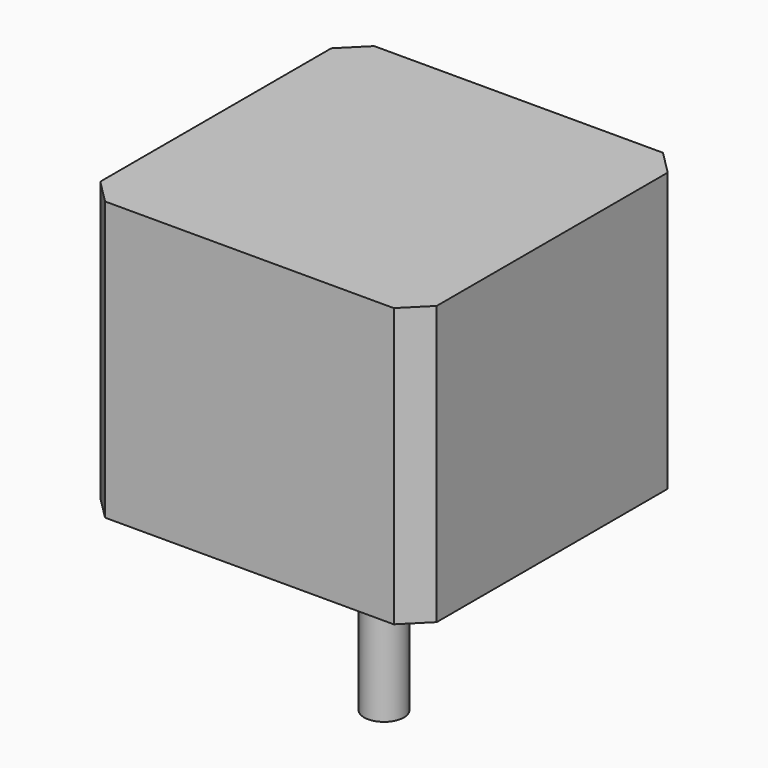
from build123d import *

# Parameters (mm, degrees)
F0_W     = 42.3
F0_H     = 42.3
F0_R     = 11
F0_R_2   = 2.5
F1_DEPTH = 35
F2_DEPTH = 24
F3_DEPTH = 2
F4_SIZE  = 3


with BuildPart() as f1:
    # F0 (on Top) → F1 (new body)
    with BuildSketch(Plane.XY):
        Rectangle(F0_W, F0_H)
        Circle(F0_R, mode=Mode.SUBTRACT)
        Circle(F0_R)
        Circle(F0_R_2, mode=Mode.SUBTRACT)
        Circle(F0_R_2)
    extrude(amount=F1_DEPTH)

    # F0 (on Top) → F2 (join)
    with BuildSketch(Plane.XY):
        Circle(F0_R_2)
    extrude(amount=-F2_DEPTH)

    # F0 (on Top) → F3 (join)
    with BuildSketch(Plane.XY):
        Circle(F0_R)
        Circle(F0_R_2, mode=Mode.SUBTRACT)
    extrude(amount=-F3_DEPTH)

    # F4
    f4_edges = [f1.edges().sort_by_distance(p)[0] for p in [
        (-21.15, -21.15, 17.5),
        (21.15, -21.15, 17.5),
        (21.15, 21.15, 17.5),
        (-21.15, 21.15, 17.5),
    ]]
    chamfer(f4_edges, length=F4_SIZE)


solid = f1.part
